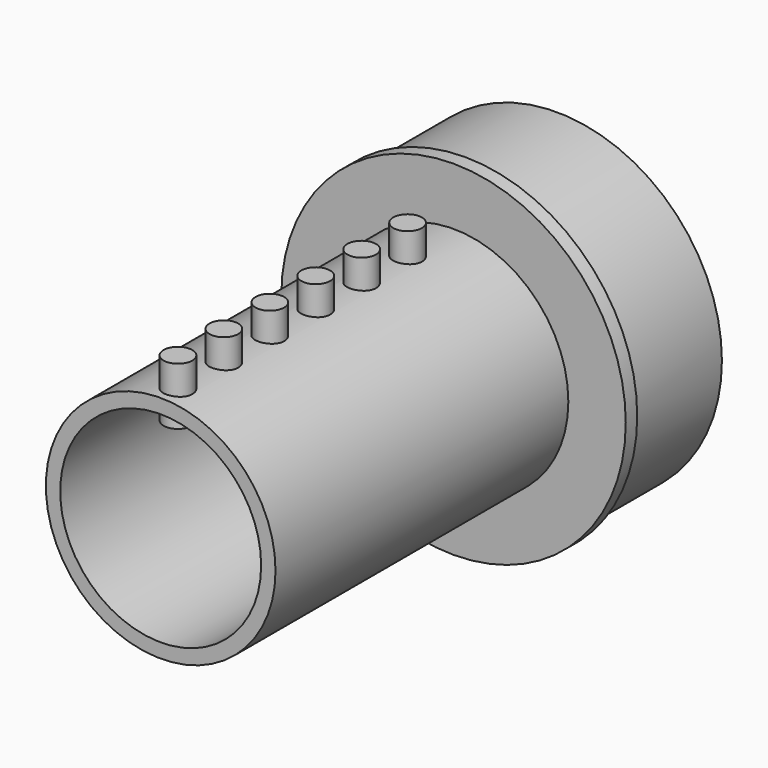
from build123d import *

# Parameters (mm, degrees)
F0_R     = 25.4
F0_R_2   = 22.225
F1_DEPTH = 84.1502
F2_R     = 38.1
F3_DEPTH = 3.175
F4_R     = 36.5125
F5_DEPTH = 25.4
F7_R     = 3.175
F8_DEPTH = 12.7


with BuildPart() as f1:
    # F0 (on Front) → F1 (new body)
    with BuildSketch(Plane.XZ):
        Circle(F0_R)
        Circle(F0_R_2, mode=Mode.SUBTRACT)
    extrude(amount=F1_DEPTH)

    # F2 (on Front) → F3 (join)
    with BuildSketch(Plane.XZ):
        Circle(F2_R)
    extrude(amount=F3_DEPTH)

    # F4 (on face) → F5 (join)
    with BuildSketch(Plane(origin=(0, 0, 0), x_dir=(-1, 0, 0), z_dir=(0, 1, 0))):
        Circle(F4_R)
    extrude(amount=F5_DEPTH)

    # F7 (on offset) → F8 (join)
    with BuildSketch(Plane.XY.offset(19.05)):
        with Locations((0, -15.875)):
            Circle(F7_R)
        with Locations((0, -28.575)):
            Circle(F7_R)
        with Locations((0, -41.275)):
            Circle(F7_R)
        with Locations((0, -53.975)):
            Circle(F7_R)
        with Locations((0, -66.675)):
            Circle(F7_R)
        with Locations((0, -79.375)):
            Circle(F7_R)
    extrude(amount=F8_DEPTH)


solid = f1.part
